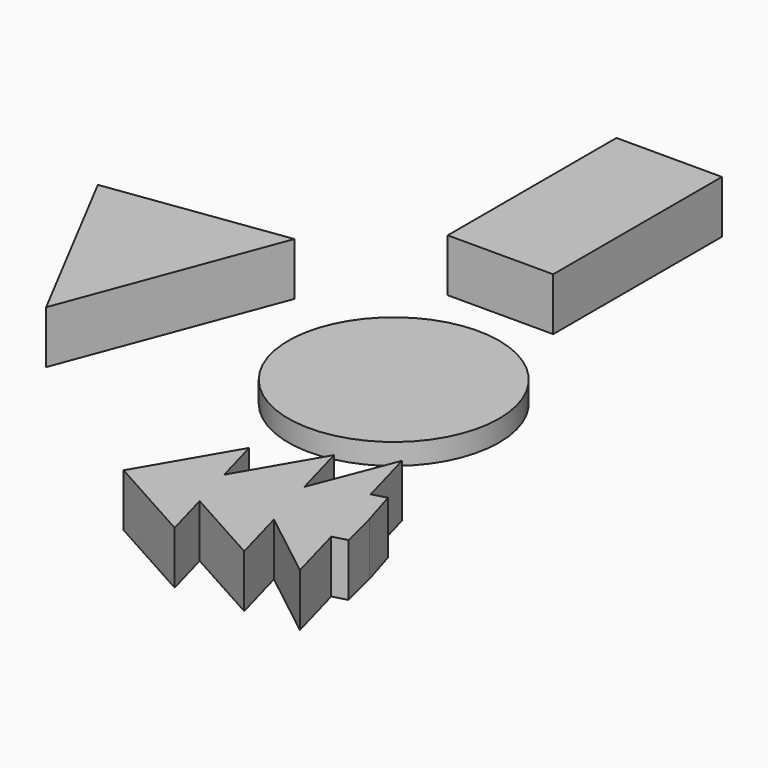
from build123d import *

# Parameters (mm, degrees)
F0_R     = 50
F1_DEPTH = 10
F2_W     = 50
F2_H     = 100
F3_DEPTH = 25
F5_DEPTH = 25
F7_DEPTH = 25


with BuildPart() as f1:
    # F0 (on Top) → F1 (new body)
    with BuildSketch(Plane.XY):
        Circle(F0_R)
    extrude(amount=F1_DEPTH)


with BuildPart() as f3:
    # F2 (on Top) → F3 (new body)
    with BuildSketch(Plane.XY):
        with Locations((-13.674594, 130.321365)):
            Rectangle(F2_W, F2_H)
    extrude(amount=F3_DEPTH)


with BuildPart() as f5:
    # F4 (on Top) → F5 (new body)
    with BuildSketch(Plane.XY):
        Polygon((-165.098613, 31.020163), (-118.756424, -57.593614), (-81.135886, 42.559015), align=None)
    extrude(amount=F5_DEPTH)


with BuildPart() as f7:
    # F6 (on Top) → F7 (new body)
    with BuildSketch(Plane.XY):
        Polygon((80.835685, -115.479551), (-14.697704, -141.709819), (28.869888, -165.925875), (22.680873, -143.384835), (60.739134, -164.538654), (53.382641, -137.745536), (86.305767, -163.494736), (78.549706, -135.246346), (85.255907, -133.405048), align=None)
        Polygon((10.395907, -98.641697), (-14.697704, -141.709819), (80.835685, -115.479551), (75.482741, -97.810149), (68.776539, -99.651447), (61.020478, -71.403057), (45.861817, -110.353905), (38.505324, -83.560787), (16.584921, -121.182738), align=None)
    extrude(amount=F7_DEPTH)


solid = Compound([f1.part, f3.part, f5.part, f7.part])
